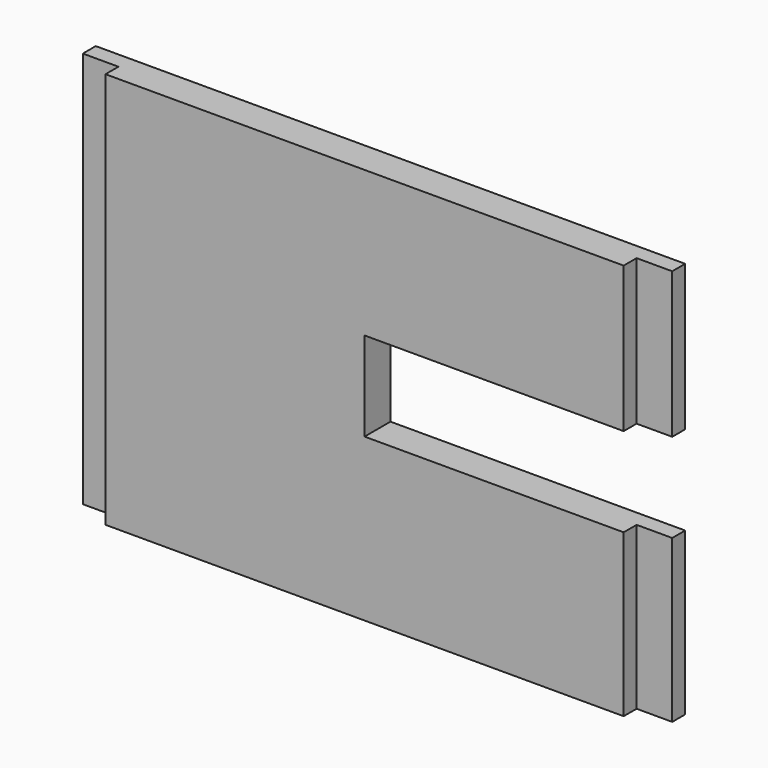
from build123d import *

# Parameters (mm, degrees)
F1_DEPTH = 2.54
F2_W     = 5.588
F2_H     = 22.86
F2_H_2   = 25.4
F2_H_3   = 62.23
F3_DEPTH = 2.54


with BuildPart() as f1:
    # F0 (on Front) → F1 (new body)
    with BuildSketch(Plane.XZ):
        Polygon((40.64, 8.255), (40.64, 31.115), (-40.64, 31.115), (-40.64, -31.115), (40.64, -31.115), (40.64, -5.715), (0, -5.715), (0, 8.255), align=None)
    extrude(amount=F1_DEPTH)

    # F2 (on face) → F3 (join)
    with BuildSketch(Plane(origin=(0, 0, 0), x_dir=(-1, 0, 0), z_dir=(0, 1, 0))):
        with Locations((-43.434, 19.685)):
            Rectangle(F2_W, F2_H)
        Polygon((40.64, 31.115), (-40.64, 31.115), (-40.64, 8.255), (0, 8.255), (0, -5.715), (-40.64, -5.715), (-40.64, -31.115), (40.64, -31.115), align=None)
        with Locations((-43.434, -18.415)):
            Rectangle(F2_W, F2_H_2)
        with Locations((43.434, 0)):
            Rectangle(F2_W, F2_H_3)
    extrude(amount=F3_DEPTH)


solid = f1.part
